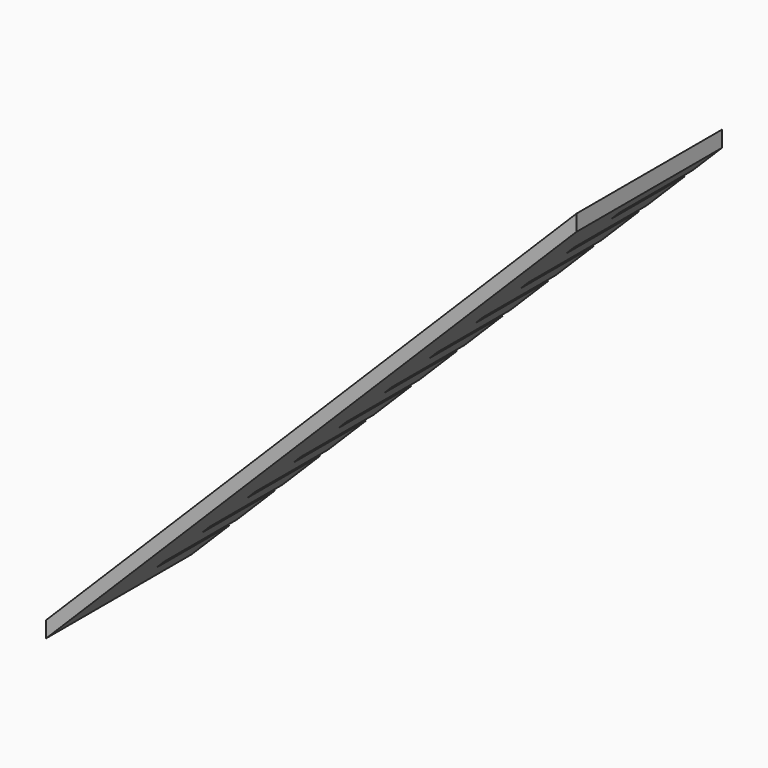
from build123d import *

# Parameters (mm, degrees)
F1_DEPTH = 152.4
F2_W     = 152.4
F2_H     = 19.05
F3_DEPTH = 19.05


with BuildPart() as f1:
    # F0 (on Front) → F1 (new body, symmetric)
    with BuildSketch(Plane.XZ):
        Polygon((-421.5234547212, 26.9407683632), (-421.5234547212, 0), (467.4680197279, 888.9914744491), (467.4680197279, 915.9322428123), align=None)
    extrude(amount=F1_DEPTH, both=True)

    # F2 (on face) → F3 (cut)
    with BuildSketch(Plane(origin=(-224.2321115422, 0, 224.2321115422), x_dir=(0, -1, 0), z_dir=(-0.7071067812, 0, 0.7071067812))):
        with Locations((-76.2, -199.6370932625)):
            Rectangle(F2_W, F2_H)
        with Locations((-76.2, -91.6870932625)):
            Rectangle(F2_W, F2_H)
        with Locations((-76.2, 16.2629067375)):
            Rectangle(F2_W, F2_H)
        with Locations((-76.2, 124.2129067375)):
            Rectangle(F2_W, F2_H)
        with Locations((-76.2, 232.1629067375)):
            Rectangle(F2_W, F2_H)
        with Locations((-76.2, 340.1129067375)):
            Rectangle(F2_W, F2_H)
        with Locations((-76.2, 448.0629067375)):
            Rectangle(F2_W, F2_H)
        with Locations((-76.2, 556.0129067375)):
            Rectangle(F2_W, F2_H)
        with Locations((-76.2, 663.9629067375)):
            Rectangle(F2_W, F2_H)
        with Locations((-76.2, 771.9129067375)):
            Rectangle(F2_W, F2_H)
        with Locations((-76.2, 879.8629067375)):
            Rectangle(F2_W, F2_H)
    extrude(amount=-F3_DEPTH, mode=Mode.SUBTRACT)


solid = f1.part
